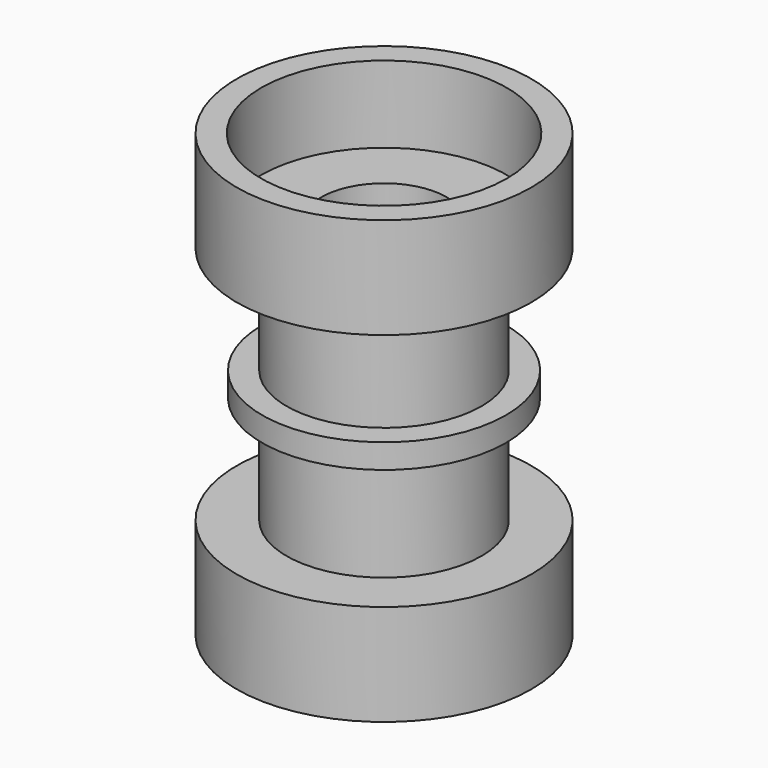
from build123d import *

# Parameters (mm, degrees)
F0_R      = 7.9375
F1_DEPTH  = 1.5875
F2_R      = 6.35
F3_DEPTH  = 7
F4_R      = 6.35
F5_DEPTH  = 7
F6_R      = 9.587497
F7_DEPTH  = 1.5875
F8_R      = 9.587497
F9_DEPTH  = 1.5875
F10_R     = 9.587497
F10_R_2   = 8
F11_DEPTH = 5
F12_R     = 9.587497
F12_R_2   = 8
F13_DEPTH = 5
F14_R     = 4.087495
F15_DEPTH = 18.7625


with BuildPart() as f1:
    # F0 (on Top) → F1 (new body)
    with BuildSketch(Plane.XY):
        Circle(F0_R)
    extrude(amount=F1_DEPTH)

    # F2 (on face) → F3 (join)
    with BuildSketch(Plane.XY.offset(1.5875)):
        Circle(F2_R)
    extrude(amount=F3_DEPTH)

    # F4 (on face) → F5 (join)
    with BuildSketch(Plane(origin=(0, 0, 0), x_dir=(1, 0, 0), z_dir=(0, 0, -1))):
        Circle(F4_R)
    extrude(amount=F5_DEPTH)

    # F6 (on face) → F7 (join)
    with BuildSketch(Plane.XY.offset(8.5875)):
        Circle(F6_R)
    extrude(amount=F7_DEPTH)

    # F8 (on face) → F9 (join)
    with BuildSketch(Plane(origin=(0, 0, -7), x_dir=(1, 0, 0), z_dir=(0, 0, -1))):
        Circle(F8_R)
    extrude(amount=F9_DEPTH)

    # F10 (on face) → F11 (join)
    with BuildSketch(Plane(origin=(0, 0, -8.5875), x_dir=(1, 0, 0), z_dir=(0, 0, -1))):
        Circle(F10_R)
        Circle(F10_R_2, mode=Mode.SUBTRACT)
    extrude(amount=F11_DEPTH)

    # F12 (on face) → F13 (join)
    with BuildSketch(Plane.XY.offset(10.175)):
        Circle(F12_R)
        Circle(F12_R_2, mode=Mode.SUBTRACT)
    extrude(amount=F13_DEPTH)

    # F14 (on face) → F15 (cut, through all)
    with BuildSketch(Plane(origin=(0, 0, -8.5875), x_dir=(1, 0, 0), z_dir=(0, 0, -1))):
        Circle(F14_R)
    extrude(amount=-F15_DEPTH, mode=Mode.SUBTRACT)


solid = f1.part
